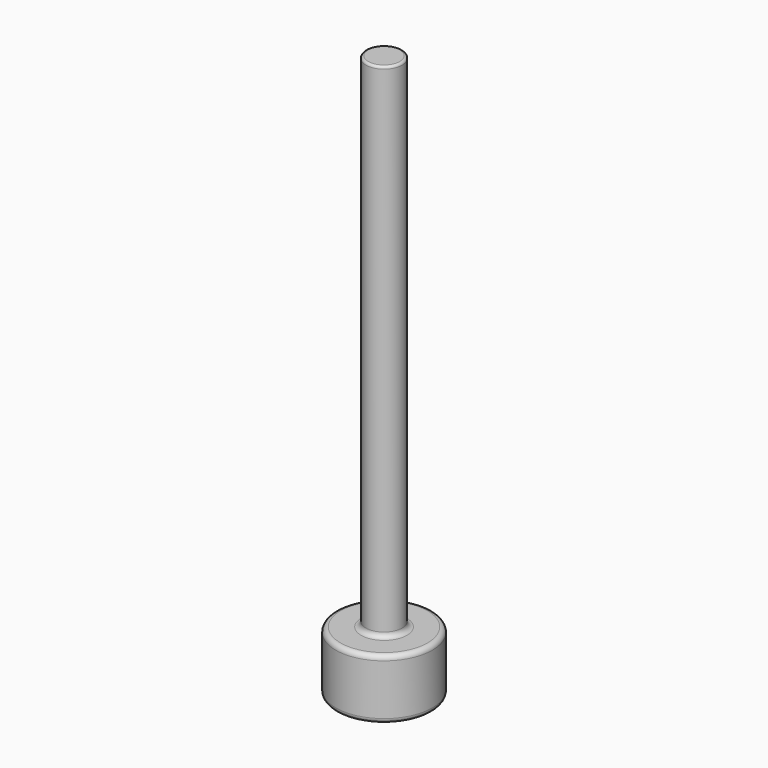
from build123d import *

# Parameters (mm, degrees)
F0_R     = 20
F1_DEPTH = 25
F2_R     = 7.5
F3_DEPTH = 208
F4_R     = 2
F5_R     = 1


with BuildPart() as f1:
    # F0 (on Top) → F1 (new body)
    with BuildSketch(Plane.XY):
        Circle(F0_R)
    extrude(amount=F1_DEPTH)

    # F2 (on face) → F3 (join)
    with BuildSketch(Plane.XY.offset(25)):
        Circle(F2_R)
    extrude(amount=F3_DEPTH)

    # F4
    f4_edges = [f1.edges().sort_by_distance(p)[0] for p in [
        (-20, 0, 0),
        (-20, 0, 25),
        (-7.5, 0, 25),
    ]]
    fillet(f4_edges, radius=F4_R)

    # F5
    f5_edges = [f1.edges().sort_by_distance(p)[0] for p in [
        (-7.5, 0, 233),
    ]]
    fillet(f5_edges, radius=F5_R)


solid = f1.part
